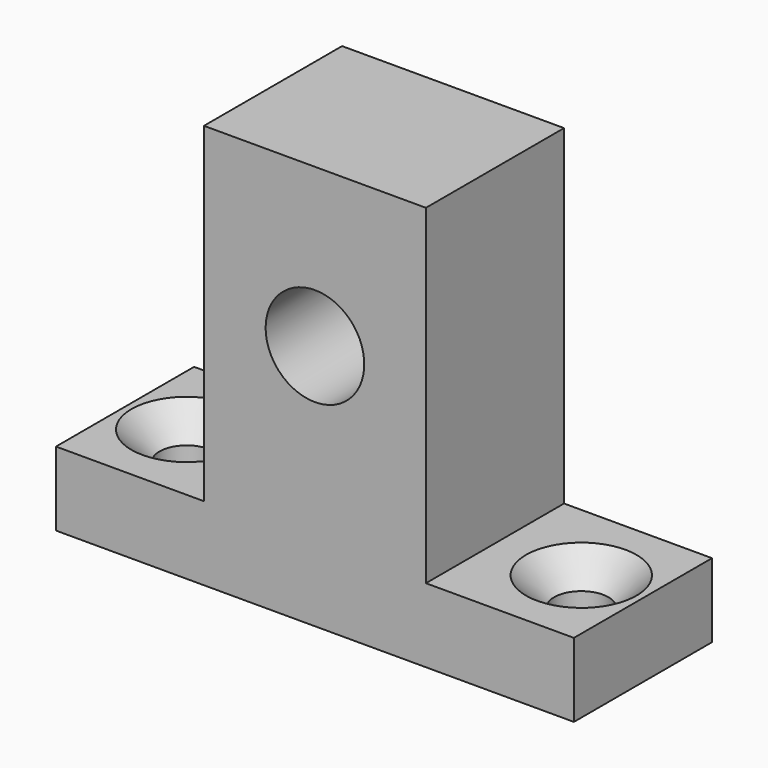
from build123d import *

# Parameters (mm, degrees)
F0_W           = 42
F0_H           = 14
F1_DEPTH       = 6
F2_W           = 18
F2_H           = 14
F3_DEPTH       = 26.8
F6_D           = 4.4
F6_CSINK_D     = 8.96
F6_CSINK_ANGLE = 90
F7_D           = 8


with BuildPart() as f1:
    # F0 (on Top) → F1 (new body)
    with BuildSketch(Plane.XY):
        Rectangle(F0_W, F0_H)
    extrude(amount=F1_DEPTH)

    # F2 (on face) → F3 (join)
    with BuildSketch(Plane.XY.offset(6)):
        Rectangle(F2_W, F2_H)
    extrude(amount=F3_DEPTH)

    # F6 (through all)
    with Locations(Plane.XY.offset(6)):
        with Locations((-16, 0), (16, 0)):
            CounterSinkHole(F6_D / 2, F6_CSINK_D / 2, counter_sink_angle=F6_CSINK_ANGLE)

    # F7 (through all)
    with Locations(Plane.XZ.offset(7)):
        with Locations((0, 20)):
            Hole(F7_D / 2)


solid = f1.part
